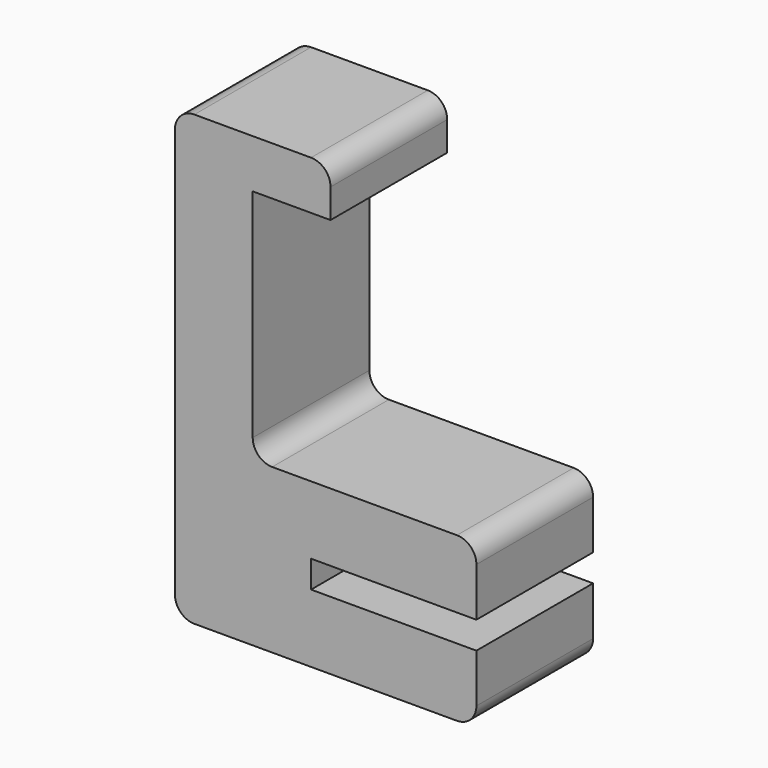
from build123d import *

# Parameters (mm, degrees)
F1_DEPTH = 15


with BuildPart() as f1:
    # F0 (on Front) → F1 (new body)
    with BuildSketch(Plane.XZ):
        with BuildLine():
            Line((-6, 0), (0, 0))
            Line((0, 0), (21, 0))
            ThreePointArc((21, 0), (22.414214, 0.585786), (23, 2))
            Line((23, 2), (23, 7))
            Line((23, 7), (6, 7))
            Line((6, 7), (6, 9.8))
            Line((6, 9.8), (23, 9.8))
            Line((23, 9.8), (23, 14.8))
            ThreePointArc((23, 14.8), (22.414214, 16.214214), (21, 16.8))
            Line((21, 16.8), (2, 16.8))
            ThreePointArc((2, 16.8), (0.585786, 17.385786), (0, 18.8))
            Line((0, 18.8), (0, 29.8))
            Line((0, 29.8), (0, 36.8))
            Line((0, 36.8), (0, 41.1))
            Line((0, 41.1), (8, 41.1))
            Line((8, 41.1), (8, 44.1))
            ThreePointArc((8, 44.1), (7.414214, 45.514214), (6, 46.1))
            Line((6, 46.1), (0, 46.1))
            Line((0, 46.1), (-6, 46.1))
            ThreePointArc((-6, 46.1), (-7.414214, 45.514214), (-8, 44.1))
            Line((-8, 44.1), (-8, 2))
            ThreePointArc((-8, 2), (-7.414214, 0.585786), (-6, 0))
        make_face()
    extrude(amount=F1_DEPTH)


solid = f1.part
